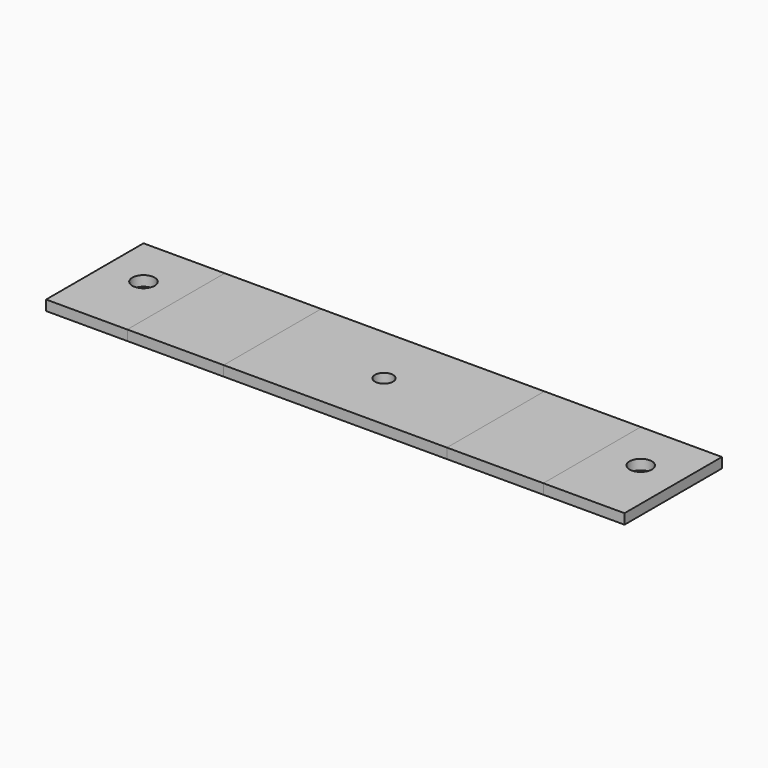
from build123d import *

# Parameters (mm, degrees)
F0_W     = 80
F0_H     = 120
F1_DEPTH = 10
F0_W_2   = 220
F2_DEPTH = 10
F0_W_3   = 95
F3_DEPTH = 10
F5_D     = 18
F6_D     = 22


with BuildPart() as f1:
    # F0 (on Top) → F1 (new body)
    with BuildSketch(Plane.XY):
        with Locations((245, 0)):
            Rectangle(F0_W, F0_H)
        with Locations((-245, 0)):
            Rectangle(F0_W, F0_H)
    extrude(amount=F1_DEPTH)

    # F6 (through all)
    with Locations(Plane.XY.offset(10)):
        with Locations((-245, 10), (245, 10)):
            Hole(F6_D / 2)


with BuildPart() as f2:
    # F0 (on Top) → F2 (new body)
    with BuildSketch(Plane.XY):
        Rectangle(F0_W_2, F0_H)
    extrude(amount=F2_DEPTH)

    # F5 (through all)
    with Locations(Plane(origin=(0, 0, 0), x_dir=(1, 0, 0), z_dir=(0, 0, -1))):
        with Locations((0, 0)):
            Hole(F5_D / 2)


with BuildPart() as f3:
    # F0 (on Top) → F3 (new body)
    with BuildSketch(Plane.XY):
        with Locations((-157.5, 0)):
            Rectangle(F0_W_3, F0_H)
        with Locations((157.5, 0)):
            Rectangle(F0_W_3, F0_H)
    extrude(amount=F3_DEPTH)


solid = Compound([f1.part, f2.part, f3.part])
